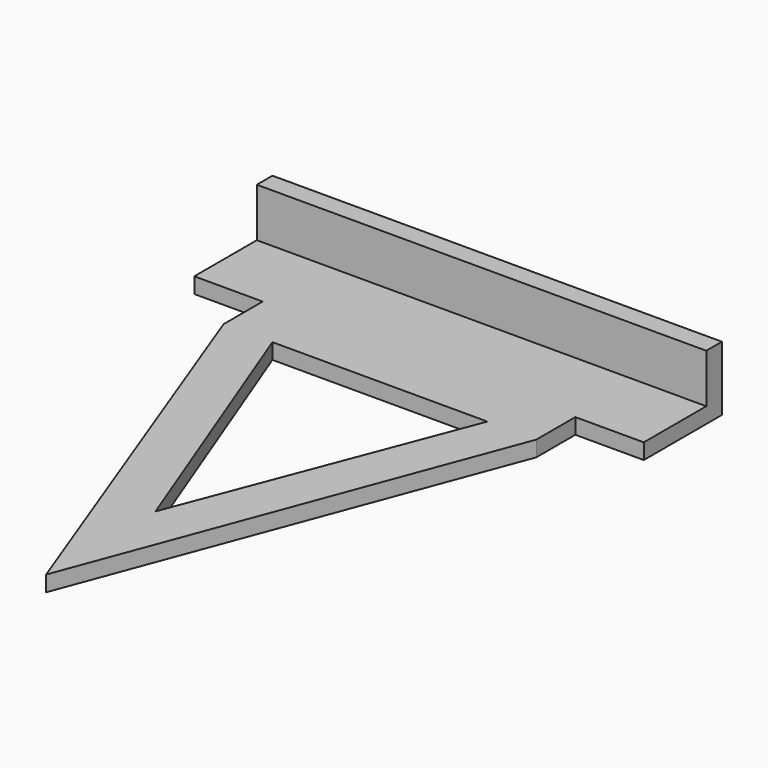
from build123d import *

# Parameters (mm, degrees)
F1_DEPTH = 1.6
F2_W     = 46
F2_H     = 2
F3_DEPTH = 5


with BuildPart() as f1:
    # F0 (on Top) → F1 (new body)
    with BuildSketch(Plane.XY):
        Polygon((23, 0), (0, 0), (-23, 0), (-23, -10), (-16, -10), (-16, -15), (0, -57.71), (16, -15), (16, -10), (23, -10), align=None)
        Polygon((0, -43.71), (-11, -15), (0, -15), (11, -15), align=None, mode=Mode.SUBTRACT)
    extrude(amount=F1_DEPTH)

    # F2 (on face) → F3 (join)
    with BuildSketch(Plane.XY.offset(1.6)):
        with Locations((0, -1)):
            Rectangle(F2_W, F2_H)
    extrude(amount=F3_DEPTH)


solid = f1.part
